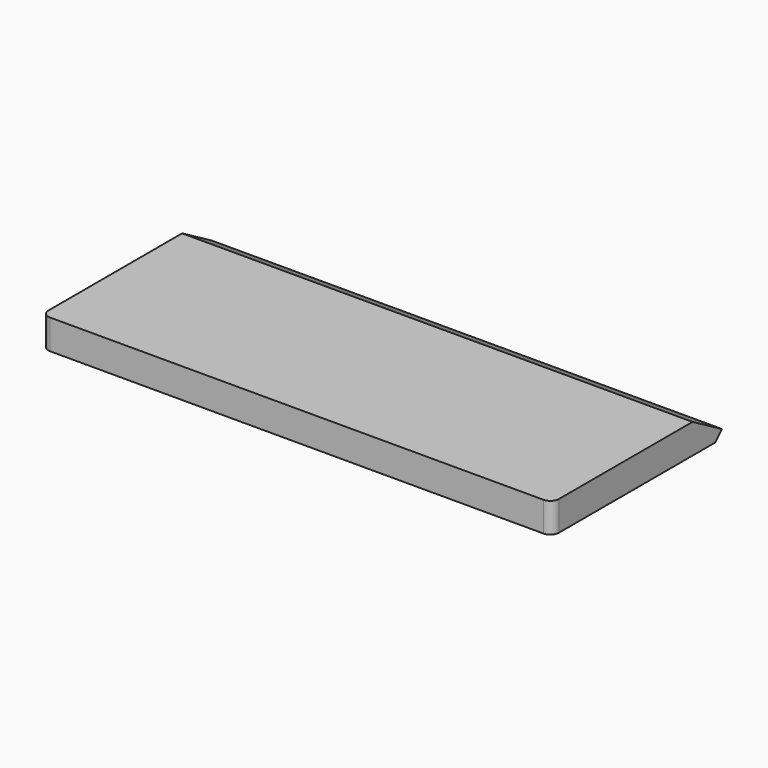
from build123d import *

# Parameters (mm, degrees)
F1_DEPTH = 1.75
F3_DEPTH = 100


with BuildPart() as f1:
    # F0 (on Top) → F1 (new body, symmetric)
    with BuildSketch(Plane.XY):
        with BuildLine():
            Line((-29.05, -12.5), (29.05, -12.5))
            ThreePointArc((29.05, -12.5), (29.757107, -12.207107), (30.05, -11.5))
            Line((30.05, -11.5), (30.05, 12.5))
            Line((30.05, 12.5), (-30.05, 12.5))
            Line((-30.05, 12.5), (-30.05, -11.5))
            ThreePointArc((-30.05, -11.5), (-29.757107, -12.207107), (-29.05, -12.5))
        make_face()
    extrude(amount=F1_DEPTH, both=True)

    # F2 (on face) → F3 (cut)
    with BuildSketch(Plane.YZ.offset(30.05)):
        Polygon((12.5, -0.75), (11.5, -1.75), (13.169873, -1.75), (13.169873, 1.75), (8.169873, 1.75), align=None)
    extrude(amount=-F3_DEPTH, mode=Mode.SUBTRACT)


solid = f1.part
